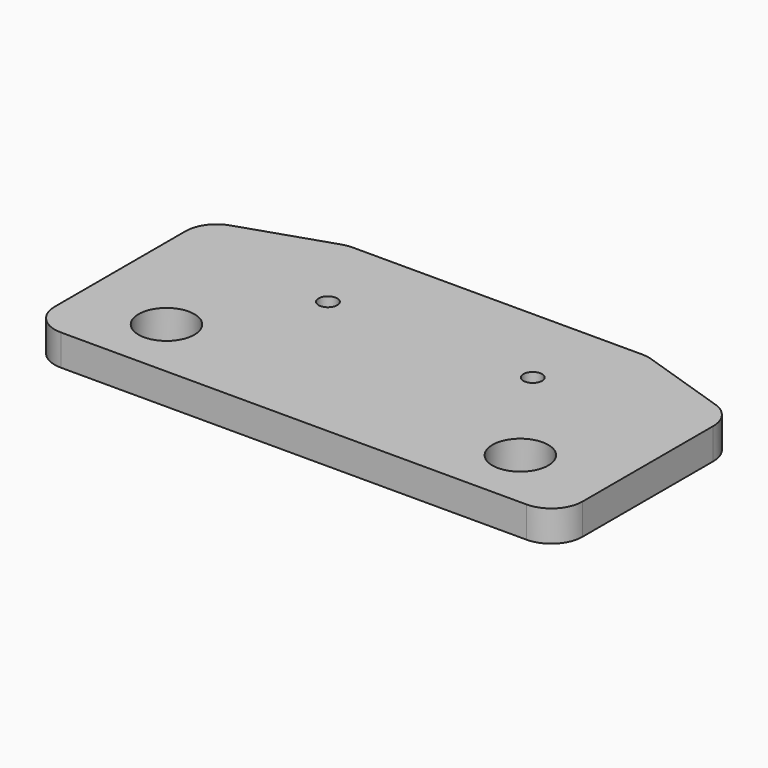
from build123d import *

# Parameters (mm, degrees)
F0_R     = 4.5
F0_R_2   = 1.5
F1_DEPTH = 5


with BuildPart() as f1:
    # F0 (on Top) → F1 (new body)
    with BuildSketch(Plane.XY):
        with BuildLine():
            Line((-37.5, -27.5), (37.5, -27.5))
            ThreePointArc((37.5, -27.5), (41.035534, -26.035534), (42.5, -22.5))
            Line((42.5, -22.5), (42.5, 3.83017))
            ThreePointArc((42.5, 3.83017), (41.551788, 6.759848), (39.066796, 8.578344))
            Line((39.066796, 8.578344), (24.914882, 13.248173))
            ThreePointArc((24.914882, 13.248173), (24.141539, 13.436642), (23.348086, 13.5))
            Line((23.348086, 13.5), (0, 13.5))
            Line((0, 13.5), (-23.348086, 13.5))
            ThreePointArc((-23.348086, 13.5), (-24.141539, 13.436642), (-24.914882, 13.248173))
            Line((-24.914882, 13.248173), (-39.066796, 8.578344))
            ThreePointArc((-39.066796, 8.578344), (-41.551788, 6.759848), (-42.5, 3.83017))
            Line((-42.5, 3.83017), (-42.5, -22.5))
            ThreePointArc((-42.5, -22.5), (-41.035534, -26.035534), (-37.5, -27.5))
        make_face()
        with Locations((-28.5, -17.5)):
            Circle(F0_R, mode=Mode.SUBTRACT)
        with Locations((28.5, -17.5)):
            Circle(F0_R, mode=Mode.SUBTRACT)
        with Locations((-16.5, 0)):
            Circle(F0_R_2, mode=Mode.SUBTRACT)
        with Locations((16.5, 0)):
            Circle(F0_R_2, mode=Mode.SUBTRACT)
    extrude(amount=F1_DEPTH)


solid = f1.part
